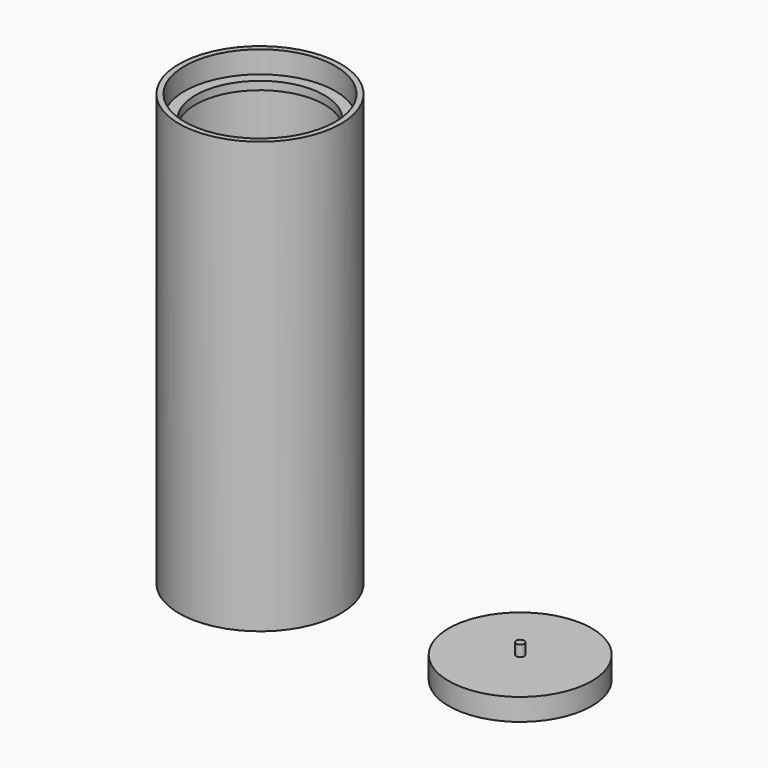
from build123d import *

# Parameters (mm, degrees)
F0_R      = 13.713
F1_DEPTH  = 0.5
F0_R_2    = 14.713
F2_DEPTH  = 78.363
F6_R      = 13.713
F6_R_2    = 11.715
F7_DEPTH  = 1.5
F0_R_3    = 13
F8_DEPTH  = 4
F12_R     = 0.75
F13_DEPTH = 2


with BuildPart() as f1:
    # F0 (on Top) → F1 (new body)
    with BuildSketch(Plane.XY):
        Circle(F0_R)
    extrude(amount=F1_DEPTH)


with BuildPart() as f2:
    # F0 (on Top) → F2 (new body)
    with BuildSketch(Plane.XY):
        Circle(F0_R_2)
        Circle(F0_R, mode=Mode.SUBTRACT)
    extrude(amount=F2_DEPTH)


with BuildPart() as f7:
    # F6 (on 3pt) → F7 (new body)
    with BuildSketch(Plane(origin=(0, 0, 74.36), x_dir=(1, 0, 0), z_dir=(0, 0, -1))):
        Circle(F6_R)
        Circle(F6_R_2, mode=Mode.SUBTRACT)
    extrude(amount=F7_DEPTH)


with BuildPart() as f8:
    # F0 (on Top) → F8 (new body)
    with BuildSketch(Plane.XY):
        with Locations((47.3201088607, 0)):
            Circle(F0_R_3)
    extrude(amount=F8_DEPTH)

    # F12 (on 3pt) → F13 (join)
    with BuildSketch(Plane.XY.offset(4)):
        with Locations((47.32011, 0)):
            Circle(F12_R)
    extrude(amount=F13_DEPTH)


solid = Compound([f1.part, f2.part, f7.part, f8.part])
